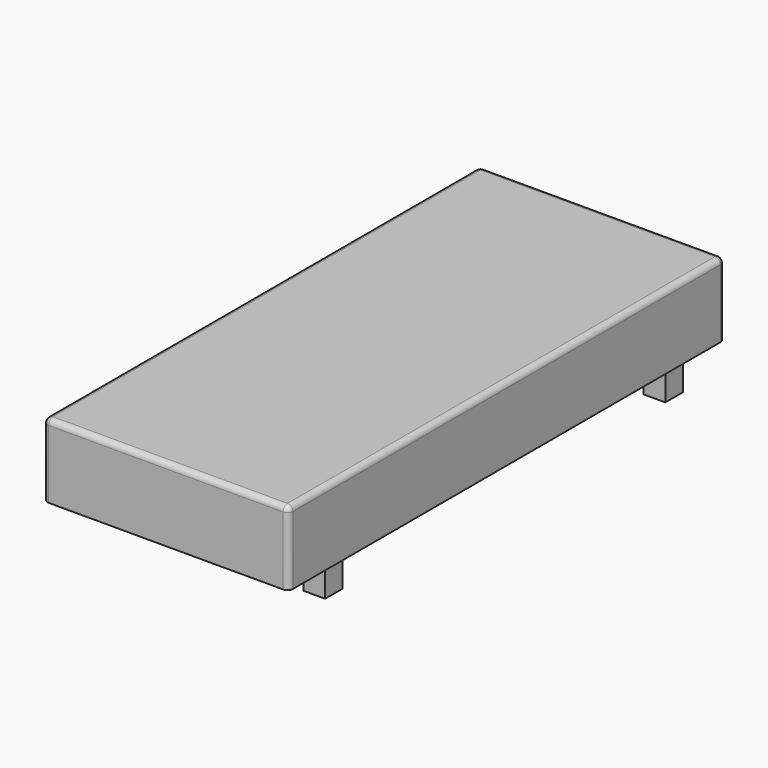
from build123d import *

# Parameters (mm, degrees)
F0_W     = 900
F0_H     = 2000
F1_DEPTH = 270
F2_R     = 20
F3_W     = 80
F3_H     = 80
F4_DEPTH = 100


with BuildPart() as f1:
    # F0 (on Top) → F1 (new body)
    with BuildSketch(Plane.XY):
        Rectangle(F0_W, F0_H)
    extrude(amount=F1_DEPTH)

    # F2
    f2_edges = [f1.edges().sort_by_distance(p)[0] for p in [
        (-450, 0, 270),
        (0, 1000, 270),
        (450, 0, 270),
        (0, -1000, 270),
        (450, -1000, 135),
        (450, 1000, 135),
        (-450, 1000, 135),
        (-450, -1000, 135),
    ]]
    fillet(f2_edges, radius=F2_R)

    # F3 (on face) → F4 (join)
    with BuildSketch(Plane(origin=(0, 0, 0), x_dir=(1, 0, 0), z_dir=(0, 0, -1))):
        with Locations((-400, 780)):
            Rectangle(F3_W, F3_H)
        with Locations((400, 780)):
            Rectangle(F3_W, F3_H)
        with Locations((400, -780)):
            Rectangle(F3_W, F3_H)
        with Locations((-400, -780)):
            Rectangle(F3_W, F3_H)
    extrude(amount=F4_DEPTH)


solid = f1.part
